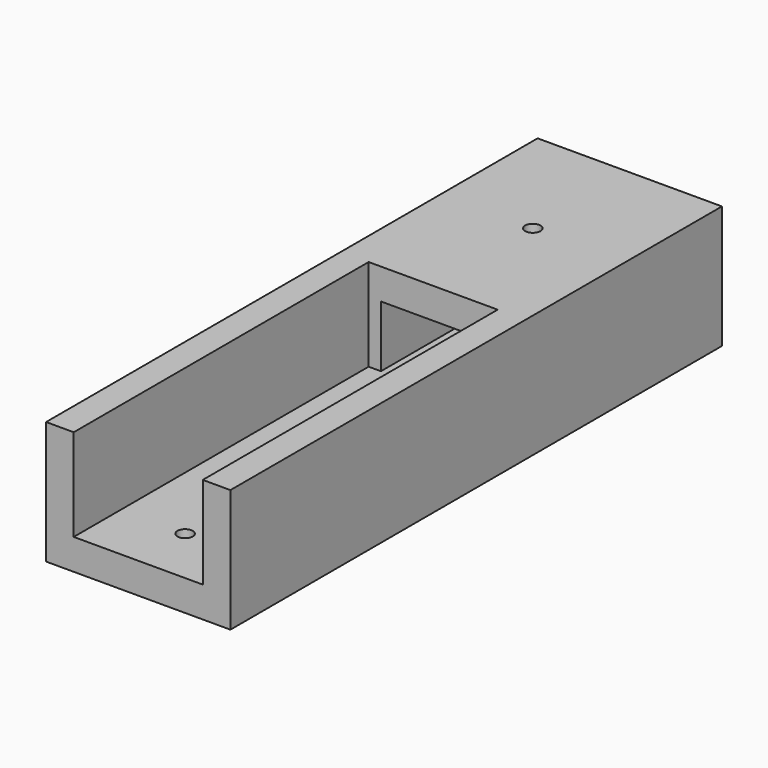
from build123d import *

# Parameters (mm, degrees)
F0_W     = 30
F0_H     = 100
F1_DEPTH = 10
F2_W     = 17
F2_H     = 10
F3_DEPTH = 200
F2_H_2   = 5
F4_DEPTH = 60
F5_R     = 1.25
F6_DEPTH = 25
F7_R     = 1.25
F8_DEPTH = 25


with BuildPart() as f1:
    # F0 (on Top) → F1 (new body, symmetric)
    with BuildSketch(Plane.XY):
        Rectangle(F0_W, F0_H)
    extrude(amount=F1_DEPTH, both=True)

    # F2 (on face) → F3 (cut)
    with BuildSketch(Plane.XZ.offset(50)):
        Rectangle(F2_W, F2_H)
    extrude(amount=-F3_DEPTH, mode=Mode.SUBTRACT)

    # F2 (on face) → F4 (cut)
    with BuildSketch(Plane.XZ.offset(50)):
        Polygon((8.5, 10), (8.5, 5), (8.5, -5), (10.5, -5), (10.5, 10), align=None)
        Polygon((-8.5, -5), (-8.5, 5), (-8.5, 10), (-10.5, 10), (-10.5, -5), align=None)
        with Locations((0, 7.5)):
            Rectangle(F2_W, F2_H_2)
    extrude(amount=-F4_DEPTH, mode=Mode.SUBTRACT)

    # F5 (on face) → F6 (cut)
    with BuildSketch(Plane.XY.offset(-5)):
        with Locations((0, -18.688429)):
            Circle(F5_R)
        with Locations((0, -40.465806)):
            Circle(F5_R)
    extrude(amount=-F6_DEPTH, mode=Mode.SUBTRACT)

    # F7 (on face) → F8 (cut)
    with BuildSketch(Plane.XY.offset(10)):
        with Locations((0, 30.281067)):
            Circle(F7_R)
    extrude(amount=-F8_DEPTH, mode=Mode.SUBTRACT)


solid = f1.part
